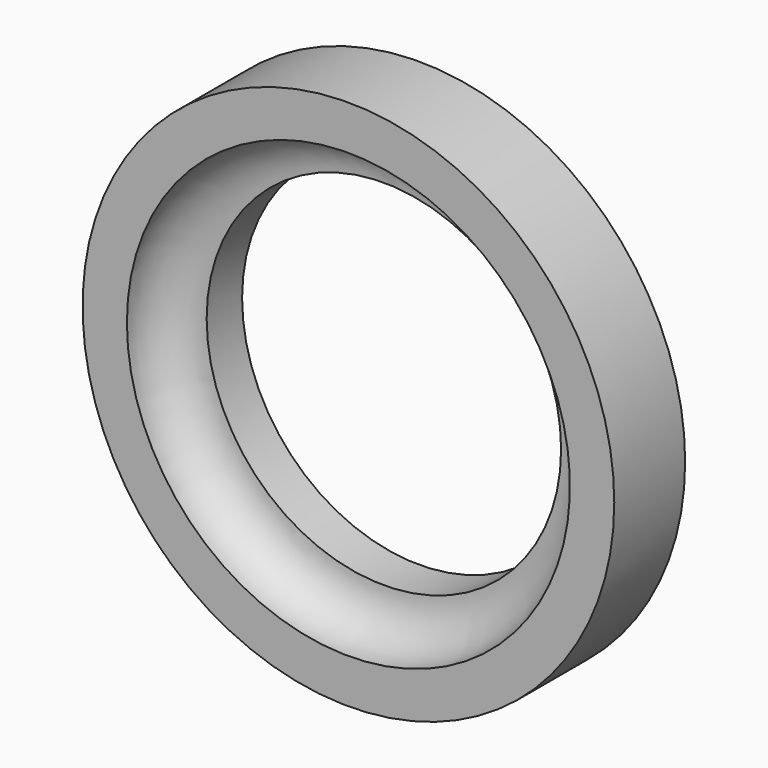
from build123d import *

# Parameters (mm, degrees)
F0_R     = 76.2
F0_R_2   = 50.8
F1_DEPTH = 25.4


with BuildPart() as f1:
    # F0 (on Front) → F1 (new body)
    with BuildSketch(Plane.XZ):
        Circle(F0_R)
        Circle(F0_R_2, mode=Mode.SUBTRACT)
    extrude(amount=F1_DEPTH)

    # F2 (on Top) → F3 (revolve, cut)
    with BuildSketch(Plane.XY):
        with BuildLine():
            ThreePointArc((-50.8, -12.7), (-59.780256, -34.380256), (-38.1, -25.4))
            ThreePointArc((-38.1, -25.4), (-41.819744, -16.419744), (-50.8, -12.7))
        make_face()
    revolve(axis=Axis((0, -11.575565, 0), (0, -1, 0)), mode=Mode.SUBTRACT)


solid = f1.part
